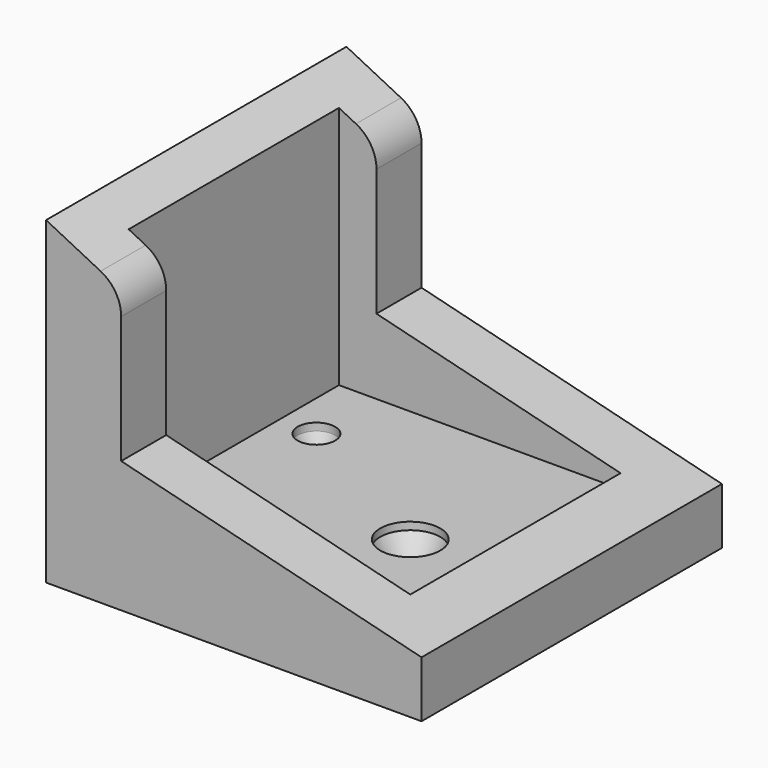
from build123d import *

# Parameters (mm, degrees)
F1_DEPTH  = 100
F2_R      = 9.9
F4_W      = 75
F4_H      = 70
F5_DEPTH  = 70.001
F6_R      = 5
F6_R_2    = 8
F7_DEPTH  = 8
F10_SIZE2 = 2.5
F10_SIZE  = 6
F11_SIZE2 = 3
F11_SIZE  = 6


with BuildPart() as f1:
    # F0 (on Front) → F1 (new body)
    with BuildSketch(Plane.XZ):
        Polygon((0, 85), (0, 0), (100, 0), (100, 15), (20, 35), (20, 75), align=None)
    extrude(amount=-F1_DEPTH)

    # F2
    f2_edges = [f1.edges().sort_by_distance(p)[0] for p in [
        (20, 50, 75),
    ]]
    fillet(f2_edges, radius=F2_R)

    # F4 (on offset) → F5 (cut, through all)
    with BuildSketch(Plane(origin=(0, 0, 15), x_dir=(1, 0, 0), z_dir=(0, 0, -1))):
        with Locations((47.5, -50)):
            Rectangle(F4_W, F4_H)
    extrude(amount=-F5_DEPTH, mode=Mode.SUBTRACT)

    # F6 (on face) → F7 (cut)
    with BuildSketch(Plane.XY.offset(15)):
        with Locations((20, 65)):
            Circle(F6_R)
        with Locations((65, 40)):
            Circle(F6_R_2)
    extrude(amount=-F7_DEPTH, mode=Mode.SUBTRACT)

    # F10
    f10_edges = [f1.edges().sort_by_distance(p)[0] for p in [
        (15, 65, 7),
    ]]
    f10_side = f1.faces().sort_by_distance((15, 65, 11))[0]
    chamfer(f10_edges, length=F10_SIZE, length2=F10_SIZE2, reference=f10_side)

    # F11
    f11_edges = [f1.edges().sort_by_distance(p)[0] for p in [
        (57, 40, 7),
    ]]
    f11_side = f1.faces().sort_by_distance((57, 40, 11))[0]
    chamfer(f11_edges, length=F11_SIZE, length2=F11_SIZE2, reference=f11_side)


solid = f1.part
